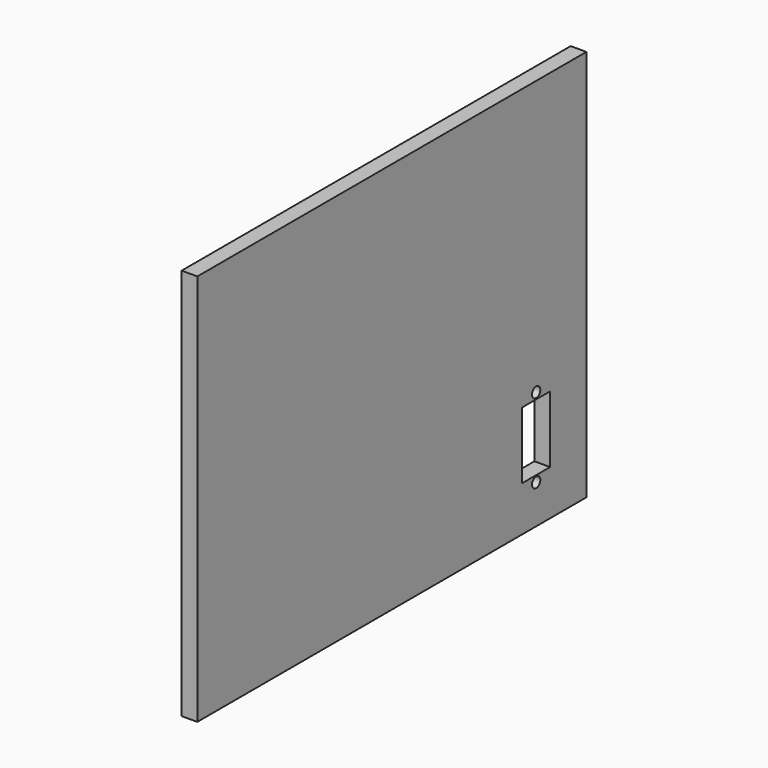
from build123d import *

# Parameters (mm, degrees)
SKETCH012_R  = 3.3
SKETCH012_W  = 22.2
SKETCH012_H  = 42.5
PAD012_DEPTH = 30
SKETCH006_W  = 310
SKETCH006_H  = 250
PAD006_DEPTH = 10


with BuildPart() as pad012:
    # Sketch012 → Pad012 (new body)
    with BuildSketch(Plane(origin=(-213, 130, 40), x_dir=(0, 1, 0), z_dir=(1, 0, 0))):
        with Locations((0, 25.3)):
            Circle(SKETCH012_R)
        with Locations((0, -25.3)):
            Circle(SKETCH012_R)
        Rectangle(SKETCH012_W, SKETCH012_H)
    extrude(amount=PAD012_DEPTH)


with BuildPart() as cut004:
    # Sketch006 → Pad006 (new body)
    with BuildSketch(Plane.YZ.offset(-210)):
        with Locations((15, 115)):
            Rectangle(SKETCH006_W, SKETCH006_H)
    extrude(amount=PAD006_DEPTH)

    # Cut004: cut Pad012
    add(pad012.part, mode=Mode.SUBTRACT)


solid = cut004.part
